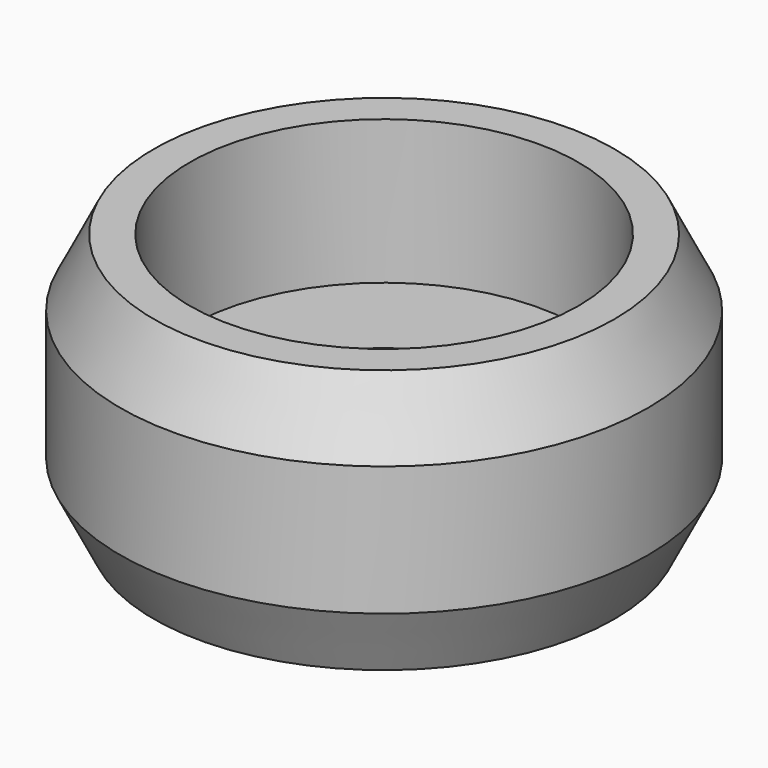
from build123d import *

# Parameters (mm, degrees)
F0_R          = 11
F1_DEPTH      = 5.5
F1_DEPTH_BACK = 5.5
F3_SIZE2      = 2.8
F3_SIZE       = 1.4
F4_SIZE2      = 1.4
F4_SIZE       = 2.8
F5_R          = 8.1
F6_DEPTH      = 6
F7_R          = 3.5
F8_DEPTH      = 5


with BuildPart() as f1:
    # F0 (on Top) → F1 (new body, two sides)
    with BuildSketch(Plane.XY) as f1_sk:
        Circle(F0_R)
    extrude(amount=F1_DEPTH)
    extrude(f1_sk.sketch, amount=-F1_DEPTH_BACK)

    # F3
    f3_edges = [f1.edges().sort_by_distance(p)[0] for p in [
        (-11, 0, 5.5),
    ]]
    f3_side = f1.faces().sort_by_distance((0, 0, 5.5))[0]
    chamfer(f3_edges, length=F3_SIZE, length2=F3_SIZE2, reference=f3_side)

    # F4
    f4_edges = [f1.edges().sort_by_distance(p)[0] for p in [
        (-11, 0, -5.5),
    ]]
    f4_side = f1.faces().sort_by_distance((-11, 0, -2.75))[0]
    chamfer(f4_edges, length=F4_SIZE, length2=F4_SIZE2, reference=f4_side)

    # F5 (on face) → F6 (cut)
    with BuildSketch(Plane.XY.offset(5.5)):
        Circle(F5_R)
    extrude(amount=-F6_DEPTH, mode=Mode.SUBTRACT)

    # F7 (on face) → F8 (cut, through all)
    with BuildSketch(Plane.XY.offset(-0.5)):
        Circle(F7_R)
    extrude(amount=-F8_DEPTH, mode=Mode.SUBTRACT)


solid = f1.part
